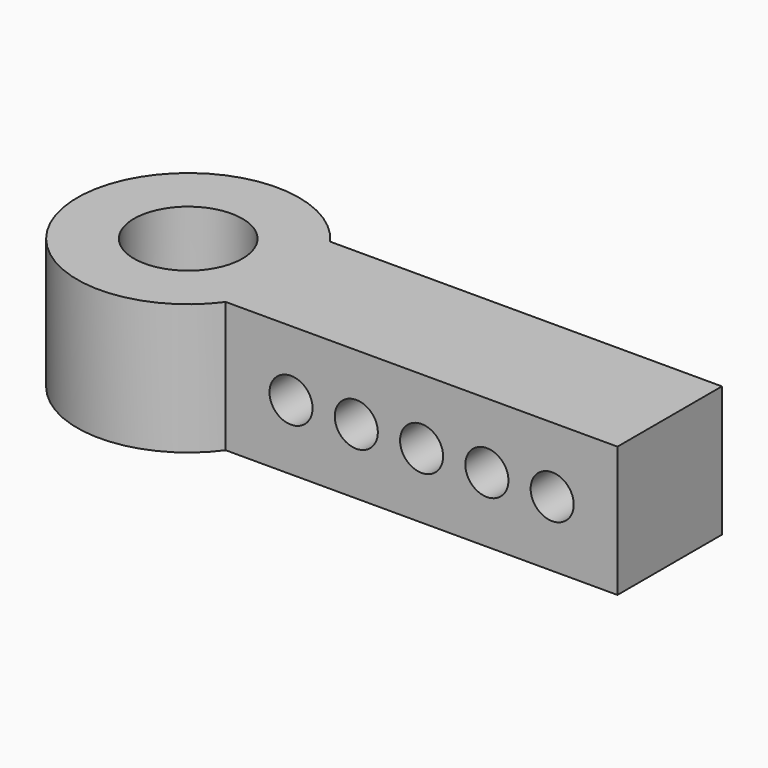
from build123d import *

# Parameters (mm, degrees)
F0_R     = 4.15
F1_DEPTH = 10
F2_R     = 1.65
F3_DEPTH = 25


with BuildPart() as f1:
    # F0 (on Top) → F1 (new body)
    with BuildSketch(Plane.XY):
        with BuildLine():
            Line((6.873864, -5), (6.873864, 5))
            ThreePointArc((6.873864, 5), (-8.5, 0), (6.873864, -5))
        make_face()
        Circle(F0_R, mode=Mode.SUBTRACT)
        with BuildLine():
            ThreePointArc((6.873864, -5), (8.083249, -2.628893), (8.5, 0))
            ThreePointArc((8.5, 0), (8.083249, 2.628893), (6.873864, 5))
            Line((6.873864, 5), (6.873864, -5))
        make_face()
        with BuildLine():
            ThreePointArc((6.873864, 5), (8.083249, 2.628893), (8.5, 0))
            ThreePointArc((8.5, 0), (8.083249, -2.628893), (6.873864, -5))
            Line((6.873864, -5), (36.873864, -5))
            Line((36.873864, -5), (36.873864, 5))
            Line((36.873864, 5), (6.873864, 5))
        make_face()
    extrude(amount=F1_DEPTH)

    # F2 (on face) → F3 (cut)
    with BuildSketch(Plane.XZ.offset(5)):
        with Locations((11.873864, 5)):
            Circle(F2_R)
        with Locations((16.873864, 5)):
            Circle(F2_R)
        with Locations((21.873864, 5)):
            Circle(F2_R)
        with Locations((26.873864, 5)):
            Circle(F2_R)
        with Locations((31.873864, 5)):
            Circle(F2_R)
    extrude(amount=-F3_DEPTH, mode=Mode.SUBTRACT)


solid = f1.part
